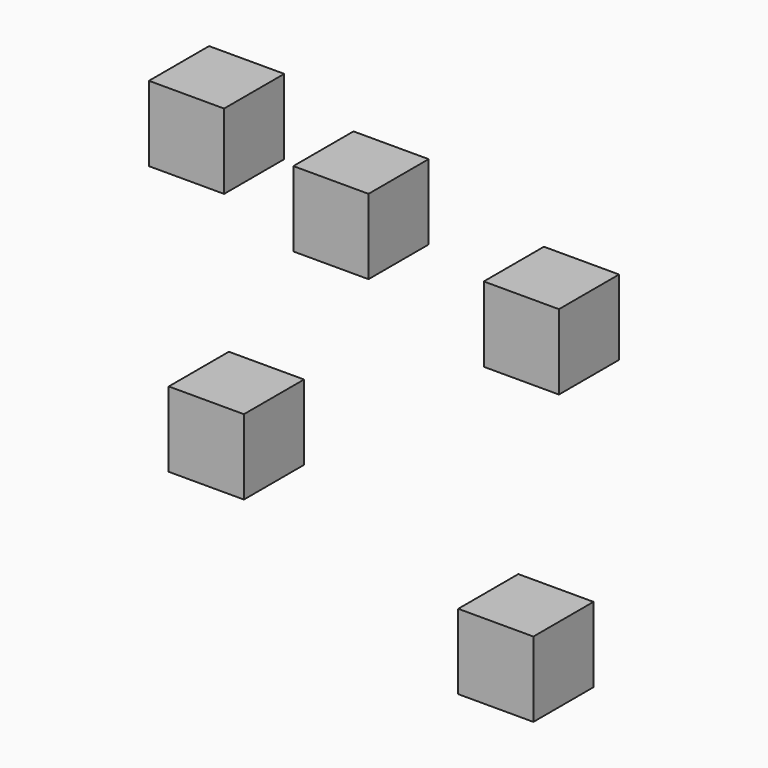
from build123d import *

# Parameters (mm, degrees)
F0_W     = 19.05
F0_H     = 19.05
F1_DEPTH = 9.525


with BuildPart() as f1:
    # F0 (on Front) → F1 (new body, symmetric)
    with BuildSketch(Plane.XZ):
        with Locations((-47.405188, 49.610983)):
            Rectangle(F0_W, F0_H)
        with Locations((-10.801428, 42.484588)):
            Rectangle(F0_W, F0_H)
        with Locations((37.46372, 32.442846)):
            Rectangle(F0_W, F0_H)
        with Locations((-42.384322, -16.956042)):
            Rectangle(F0_W, F0_H)
        with Locations((30.985176, -42.708249)):
            Rectangle(F0_W, F0_H)
    extrude(amount=F1_DEPTH, both=True)


solid = f1.part
